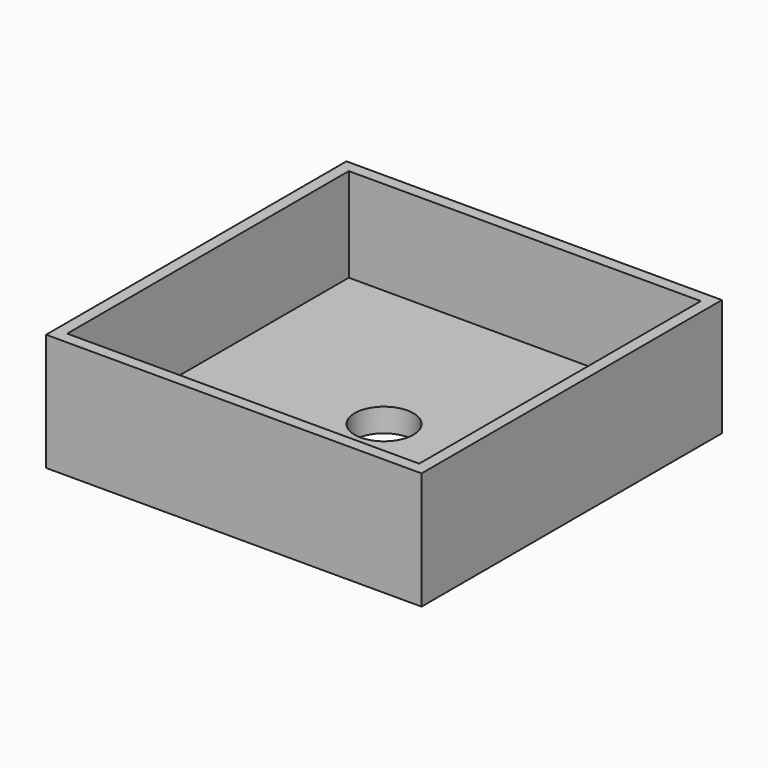
from build123d import *

# Parameters (mm, degrees)
F0_W     = 406.4
F0_H     = 406.4
F0_R     = 31.75
F1_DEPTH = 127
F2_W     = 381
F2_H     = 381
F2_R     = 31.75
F3_DEPTH = 101.6


with BuildPart() as f1:
    # F0 (on Top) → F1 (new body)
    with BuildSketch(Plane.XY):
        Rectangle(F0_W, F0_H)
        Circle(F0_R, mode=Mode.SUBTRACT)
    extrude(amount=F1_DEPTH)

    # F2 (on face) → F3 (cut)
    with BuildSketch(Plane.XY.offset(127)):
        Rectangle(F2_W, F2_H)
        Circle(F2_R, mode=Mode.SUBTRACT)
    extrude(amount=-F3_DEPTH, mode=Mode.SUBTRACT)


solid = f1.part
